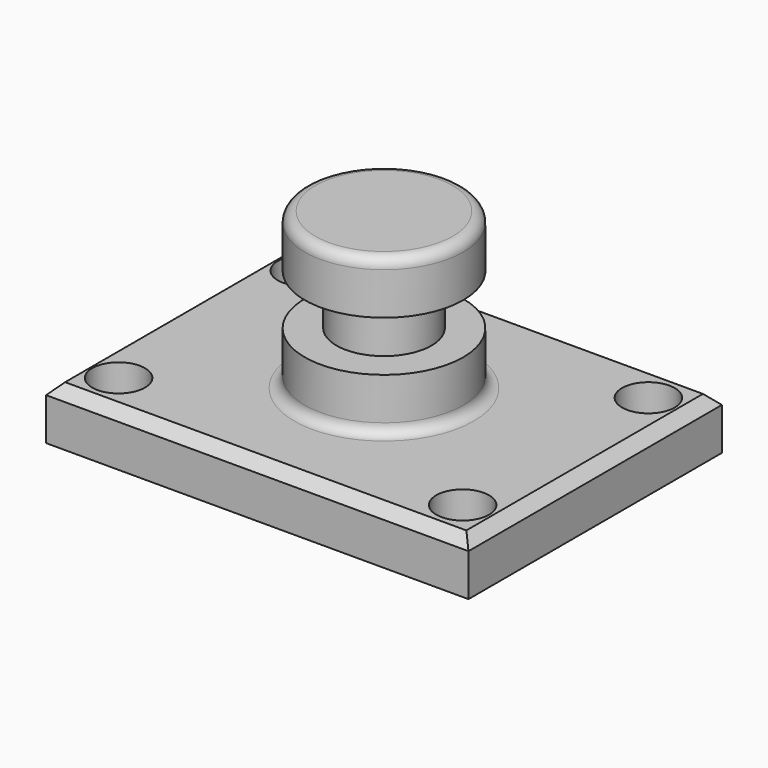
from build123d import *

# Parameters (mm, degrees)
F0_W     = 101.6
F0_H     = 76.2
F1_DEPTH = 12.7
F4_D     = 12.7
F5_W     = 11.43
F5_H     = 31.75
F7_W     = 19.05
F7_H     = 12.7
F9_W     = 19.05
F9_H     = 12.7
F11_R    = 2.54
F12_SIZE = 2.54


with BuildPart() as f1:
    # F0 (on Top) → F1 (new body)
    with BuildSketch(Plane.XY):
        Rectangle(F0_W, F0_H)
    extrude(amount=F1_DEPTH)

    # F4 (through all)
    with Locations(Plane.XY.offset(12.7)):
        with Locations((-41.501624, 27.920099), (41.256946, 27.920099), (41.256946, -27.920099), (-41.501624, -27.920099)):
            Hole(F4_D / 2)

    # F5 (on Front) → F6 (revolve)
    with BuildSketch(Plane.XZ):
        with Locations((5.715, 28.575)):
            Rectangle(F5_W, F5_H)
    revolve(axis=Axis((0, 0, 28.575), (0, 0, 1)))

    # F7 (on Front) → F8 (revolve)
    with BuildSketch(Plane.XZ):
        with Locations((9.525, 19.05)):
            Rectangle(F7_W, F7_H)
    revolve(axis=Axis((0, 0, 19.05), (0, 0, 1)))

    # F9 (on Front) → F10 (revolve)
    with BuildSketch(Plane.XZ):
        with Locations((9.525, 43.846787)):
            Rectangle(F9_W, F9_H)
    revolve(axis=Axis((0, 0, 43.846787), (0, 0, 1)))

    # F11
    f11_edges = [f1.edges().sort_by_distance(p)[0] for p in [
        (-19.05, 0, 50.196787),
        (-19.05, 0, 12.7),
    ]]
    fillet(f11_edges, radius=F11_R)

    # F12
    f12_edges = [f1.edges().sort_by_distance(p)[0] for p in [
        (0, 38.1, 12.7),
        (50.8, 0, 12.7),
        (0, -38.1, 12.7),
        (-50.8, 0, 12.7),
    ]]
    chamfer(f12_edges, length=F12_SIZE)


solid = f1.part
